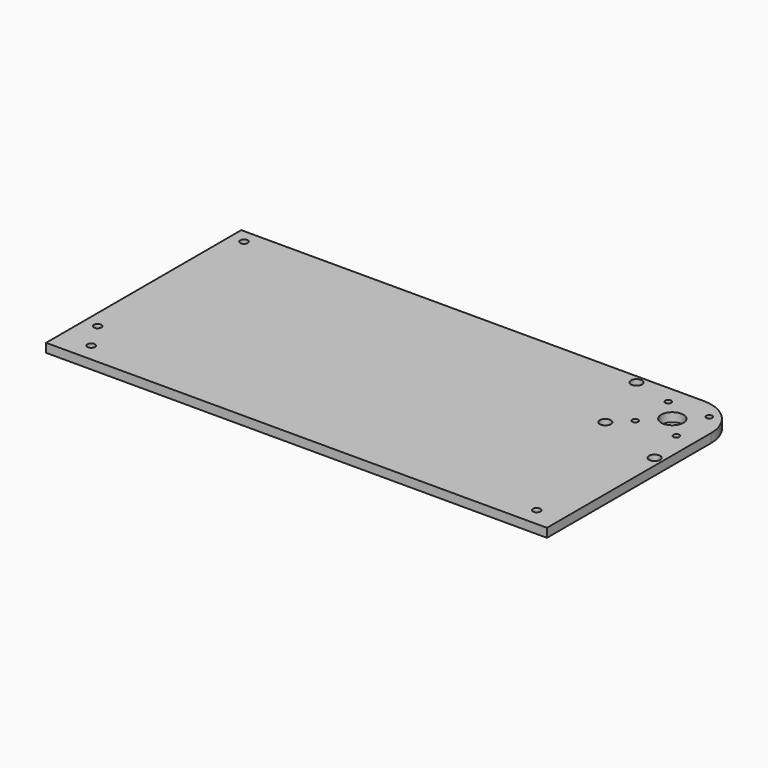
from build123d import *

# Parameters (mm, degrees)
F0_R     = 2.15265
F0_R_2   = 3.175
F0_R_3   = 1.7272
F0_R_4   = 6.35
F1_DEPTH = 5.08


with BuildPart() as f1:
    # F0 (on Top) → F1 (new body)
    with BuildSketch(Plane.XY):
        with BuildLine():
            Line((0, 22.225), (-264.908055, 22.225))
            Line((-264.908055, 22.225), (-264.908055, -117.625774))
            Line((-264.908055, -117.625774), (22.225, -117.625774))
            Line((22.225, -117.625774), (22.225, 0))
            ThreePointArc((22.225, 0), (15.715448, 15.715448), (0, 22.225))
        make_face()
        with Locations((-247.445555, -107.148274)):
            Circle(F0_R, mode=Mode.SUBTRACT)
        with Locations((-256.970555, -90.638274)):
            Circle(F0_R, mode=Mode.SUBTRACT)
        with Locations((7.9375, -107.148274)):
            Circle(F0_R, mode=Mode.SUBTRACT)
        with Locations((-256.970555, 14.2875)):
            Circle(F0_R, mode=Mode.SUBTRACT)
        with Locations((17.4625, -34.548124)):
            Circle(F0_R_2, mode=Mode.SUBTRACT)
        with Locations((-21.328108, -21.328108)):
            Circle(F0_R_2, mode=Mode.SUBTRACT)
        with Locations((-11.786586, -11.786586)):
            Circle(F0_R_3, mode=Mode.SUBTRACT)
        with Locations((11.786586, -11.786586)):
            Circle(F0_R_3, mode=Mode.SUBTRACT)
        Circle(F0_R_4, mode=Mode.SUBTRACT)
        with Locations((-34.548124, 17.4625)):
            Circle(F0_R_2, mode=Mode.SUBTRACT)
        with Locations((-11.786586, 11.786586)):
            Circle(F0_R_3, mode=Mode.SUBTRACT)
        with Locations((11.786586, 11.786586)):
            Circle(F0_R_3, mode=Mode.SUBTRACT)
    extrude(amount=F1_DEPTH)


solid = f1.part
